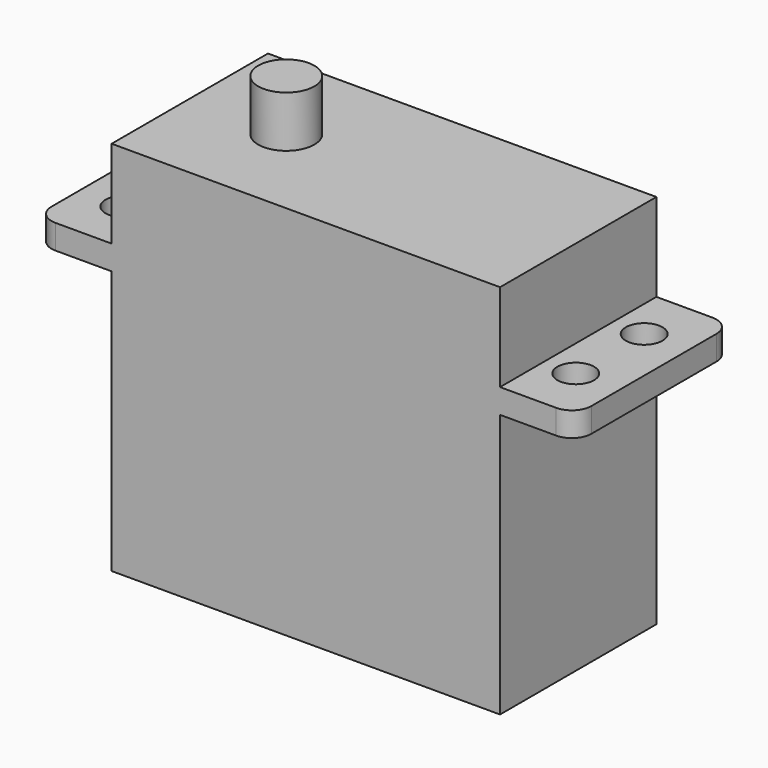
from build123d import *

# Parameters (mm, degrees)
F0_W          = 40.386
F0_H          = 20.32
F1_DEPTH      = 27.432
F1_DEPTH_BACK = 11.684
F2_R          = 1.905
F3_DEPTH      = 2.54
F4_R          = 2.921
F5_DEPTH      = 5.334


with BuildPart() as f1:
    # F0 (on Top) → F1 (new body, two sides)
    with BuildSketch(Plane.XY) as f1_sk:
        Rectangle(F0_W, F0_H)
    extrude(amount=-F1_DEPTH)
    extrude(f1_sk.sketch, amount=F1_DEPTH_BACK)

    # F2 (on Top) → F3 (join)
    with BuildSketch(Plane.XY):
        with BuildLine():
            Line((26.035, 10.16), (-26.035, 10.16))
            ThreePointArc((-26.035, 10.16), (-27.4718409794, 9.5648409794), (-28.067, 8.128))
            Line((-28.067, 8.128), (-28.067, -8.128))
            ThreePointArc((-28.067, -8.128), (-27.4718409794, -9.5648409794), (-26.035, -10.16))
            Line((-26.035, -10.16), (26.035, -10.16))
            ThreePointArc((26.035, -10.16), (27.4718409794, -9.5648409794), (28.067, -8.128))
            Line((28.067, -8.128), (28.067, 8.128))
            ThreePointArc((28.067, 8.128), (27.4718409794, 9.5648409794), (26.035, 10.16))
        make_face()
        with Locations((-23.495, -4.445)):
            Circle(F2_R, mode=Mode.SUBTRACT)
        with Locations((23.495, -4.445)):
            Circle(F2_R, mode=Mode.SUBTRACT)
        with Locations((-23.495, 4.445)):
            Circle(F2_R, mode=Mode.SUBTRACT)
        with Locations((23.495, 4.445)):
            Circle(F2_R, mode=Mode.SUBTRACT)
    extrude(amount=F3_DEPTH)

    # F4 (on face) → F5 (join)
    with BuildSketch(Plane.XY.offset(11.684)):
        with Locations((-10.16, 0)):
            Circle(F4_R)
    extrude(amount=F5_DEPTH)


solid = f1.part
